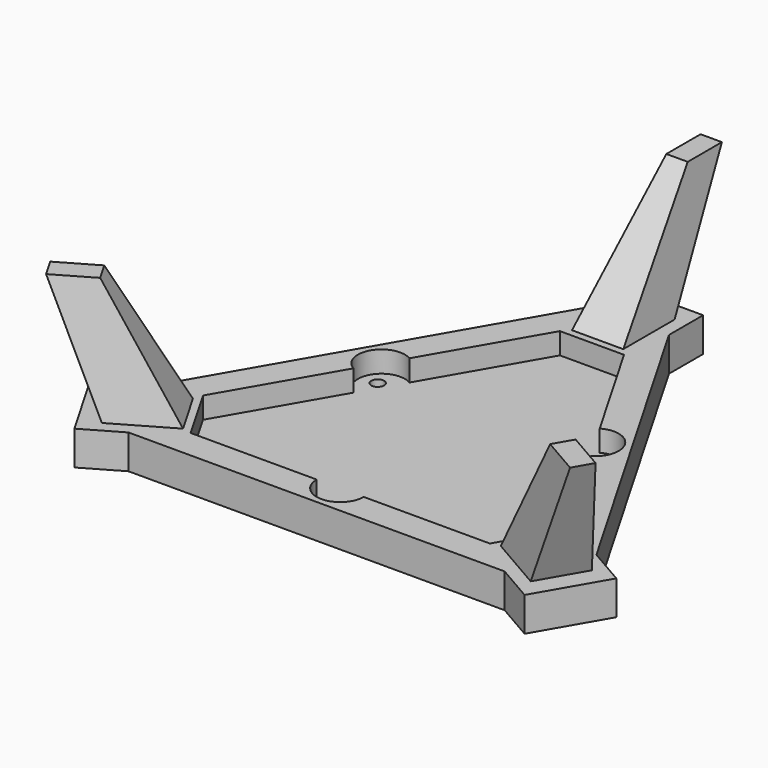
from build123d import *

# Parameters (mm, degrees)
PAD_DEPTH       = 8
POCKET_DEPTH    = 5
SKETCH003_R     = 1.5
POCKET001_DEPTH = 3.001
SKETCH006_W     = 12
SKETCH006_H     = 15
SKETCH007_W     = 5
SKETCH007_H     = 10


with BuildPart() as pocket001:
    # Sketch → Pad (new body)
    with BuildSketch(Plane.XY):
        Polygon((8.999978, 56.00299), (52.999969, -20.20725), (61.660224, -25.207249), (52.660225, -40.795708), (43.999971, -35.795709), (-44.000029, -35.795709), (-52.660285, -40.795705), (-61.660279, -25.207244), (-53.000025, -20.207243), (-9.000022, 56.00299), (-9.000022, 66.00299), (8.999978, 66.00299), align=None)
    extrude(amount=PAD_DEPTH)

    # Sketch001 → Pocket (cut)
    with BuildSketch(Plane.XY.offset(8)):
        with BuildLine():
            Line((-34.999983, -28.867498), (-42.499982, -15.877117))
            Line((-42.499982, -15.877117), (-27.749984, 9.670634))
            ThreePointArc((-22.249985, 19.196914), (-29.763132, 17.183778), (-27.749984, 9.670634))
            Line((-7.499988, 44.744665), (-22.249985, 19.196914))
            Line((7.500012, 44.744665), (-7.499988, 44.744665))
            Line((22.250011, 19.196915), (7.500012, 44.744665))
            ThreePointArc((27.750011, 9.670636), (29.763152, 17.183776), (22.250011, 19.196915))
            Line((42.500011, -15.877114), (27.750011, 9.670636))
            Line((35.000017, -28.867498), (42.500011, -15.877114))
            Line((5.500017, -28.867498), (35.000017, -28.867498))
            ThreePointArc((-5.499983, -28.867498), (1.7e-05, -34.367519), (5.500017, -28.867498))
            Line((-34.999983, -28.867498), (-5.499983, -28.867498))
        make_face()
    extrude(amount=-POCKET_DEPTH, mode=Mode.SUBTRACT)

    # Sketch003 → Pocket001 (cut, through all)
    with BuildSketch(Plane.XY.offset(3)):
        with Locations((-26.630288, 15.374988)):
            Circle(SKETCH003_R)
        with Locations((0, -30.75)):
            Circle(SKETCH003_R)
        with Locations((26.630288, 15.374988)):
            Circle(SKETCH003_R)
    extrude(amount=-POCKET001_DEPTH, mode=Mode.SUBTRACT)


with BuildPart() as loft001:
    # Sketch006 → Loft001 section 0
    with BuildSketch(Plane.XY.offset(8)):
        with Locations((0, 53.9)):
            Rectangle(SKETCH006_W, SKETCH006_H)
    # Sketch007 → Loft001 section 1
    with BuildSketch(Plane.XY.offset(36)):
        with Locations((0, 74.622368)):
            Rectangle(SKETCH007_W, SKETCH007_H)
    loft()


with BuildPart() as loft_body:
    # Sketch004 → Loft section 0
    with BuildSketch(Plane.XY.offset(8)):
        Polygon((43.183629, -18.003853), (37.183634, -28.39616), (50.174019, -35.896155), (56.174014, -25.503847), align=None)
    # Sketch009 → Loft section 1
    with BuildSketch(Plane.XY.offset(36)):
        Polygon((55.133421, -28.944512), (52.633423, -33.27464), (61.293679, -38.274636), (63.793677, -33.944508), align=None)
    loft()


with BuildPart() as loft002:
    # Sketch008 → Loft002 section 0
    with BuildSketch(Plane.XY.offset(8)):
        Polygon((-56.146959, -25.509861), (-50.143792, -35.900337), (-37.155697, -28.396378), (-43.158864, -18.005902), align=None)
    # Sketch005 → Loft002 section 1
    with BuildSketch(Plane.XY.offset(36)):
        Polygon((-63.793697, -33.944575), (-61.293696, -38.274702), (-52.633443, -33.2747), (-55.133444, -28.944573), align=None)
    loft()


solid = Compound([pocket001.part, loft001.part, loft_body.part, loft002.part])
